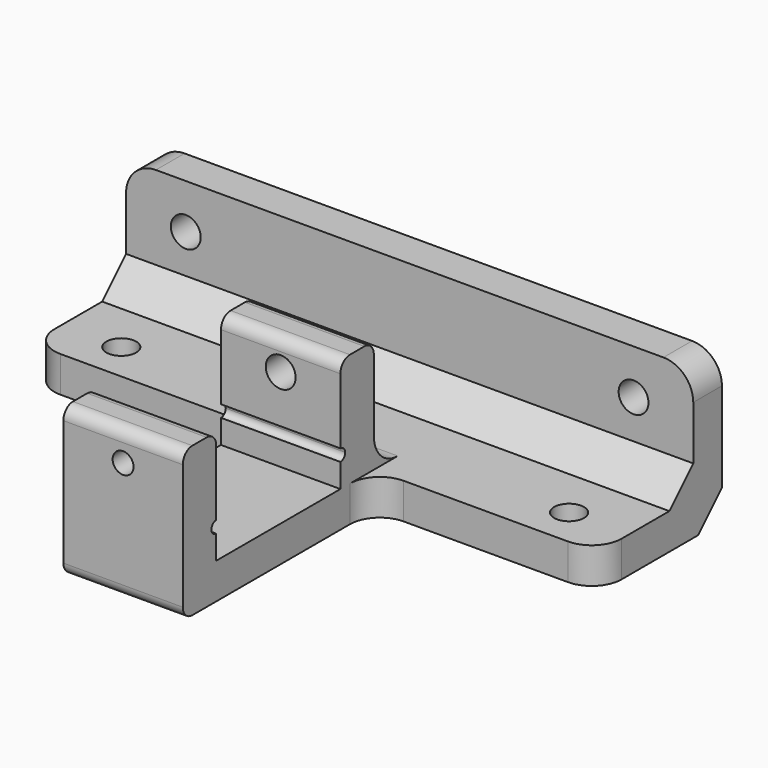
from build123d import *

# Parameters (mm, degrees)
F0_R      = 2.5
F0_W      = 20
F0_H      = 26
F0_H_2    = 7
F1_DEPTH  = 6
F0_W_2    = 95
F0_H_3    = 6
F2_DEPTH  = 25
F3_R      = 2.5
F4_DEPTH  = 25
F5_SIZE   = 5
F6_R      = 5
F7_DEPTH  = 25
F9_DEPTH  = 25
F10_R     = 1.75
F11_DEPTH = 50
F10_R_2   = 2.5
F12_DEPTH = 10
F13_R     = 2
F14_R     = 5
F15_R     = 5


with BuildPart() as f1:
    # F0 (on Top) → F1 (new body)
    with BuildSketch(Plane.XY):
        Polygon((-47.5, 20), (-47.5, 0), (-10, 0), (10, 0), (47.5, 0), (47.5, 20), align=None)
        with Locations((-37.5, 6.5)):
            Circle(F0_R, mode=Mode.SUBTRACT)
        with Locations((37.5, 6.5)):
            Circle(F0_R, mode=Mode.SUBTRACT)
        with Locations((0, -20)):
            Rectangle(F0_W, F0_H)
        with Locations((0, -36.5)):
            Rectangle(F0_W, F0_H_2)
        with Locations((0, -3.5)):
            Rectangle(F0_W, F0_H_2)
    extrude(amount=F1_DEPTH)

    # F0 (on Top) → F2 (join)
    with BuildSketch(Plane.XY):
        with Locations((0, 23)):
            Rectangle(F0_W_2, F0_H_3)
    extrude(amount=F2_DEPTH)

    # F3 (on face) → F4 (cut)
    with BuildSketch(Plane.XZ.offset(-20)):
        with Locations((-37.5, 17.5)):
            Circle(F3_R)
        with Locations((37.5, 17.5)):
            Circle(F3_R)
    extrude(amount=-F4_DEPTH, mode=Mode.SUBTRACT)

    # F5
    f5_edges = [f1.edges().sort_by_distance(p)[0] for p in [
        (0, 20, 6),
        (0, 26, 0),
    ]]
    chamfer(f5_edges, length=F5_SIZE)

    # F6
    f6_edges = [f1.edges().sort_by_distance(p)[0] for p in [
        (47.5, 23, 25),
        (47.5, 0, 3),
        (-47.5, 0, 3),
        (-47.5, 23, 25),
    ]]
    fillet(f6_edges, radius=F6_R)

    # F0 (on Top) → F7 (join)
    with BuildSketch(Plane.XY):
        with Locations((0, -3.5)):
            Rectangle(F0_W, F0_H_2)
        with Locations((0, -36.5)):
            Rectangle(F0_W, F0_H_2)
    extrude(amount=F7_DEPTH)

    # F8 (on face) → F9 (cut)
    with BuildSketch(Plane.YZ.offset(10)):
        with BuildLine():
            Line((-33, 10), (-33, 12))
            ThreePointArc((-33, 12), (-34, 11), (-33, 10))
        make_face()
        with BuildLine():
            Line((-7, 12), (-7, 10))
            ThreePointArc((-7, 10), (-6.2928932188, 10.2928932188), (-6, 11))
            ThreePointArc((-6, 11), (-6.2928932188, 11.7071067812), (-7, 12))
        make_face()
    extrude(amount=-F9_DEPTH, mode=Mode.SUBTRACT)

    # F10 (on face) → F11 (cut)
    with BuildSketch(Plane.XZ.offset(7)):
        with Locations((0, 20)):
            Circle(F10_R)
    extrude(amount=F11_DEPTH, mode=Mode.SUBTRACT)

    # F10 (on face) → F12 (cut)
    with BuildSketch(Plane.XZ.offset(7)):
        with Locations((0, 20)):
            Circle(F10_R_2)
        with Locations((0, 20)):
            Circle(F10_R, mode=Mode.SUBTRACT)
        with Locations((0, 20)):
            Circle(F10_R)
    extrude(amount=-F12_DEPTH, mode=Mode.SUBTRACT)

    # F13
    f13_edges = [f1.edges().sort_by_distance(p)[0] for p in [
        (0, -7, 25),
        (0, 0, 25),
        (0, -33, 25),
        (0, -40, 25),
        (0, -40, 0),
    ]]
    fillet(f13_edges, radius=F13_R)

    # F14
    f14_edges = [f1.edges().sort_by_distance(p)[0] for p in [
        (0, 0, 6),
    ]]
    fillet(f14_edges, radius=F14_R)

    # F15
    f15_edges = [f1.edges().sort_by_distance(p)[0] for p in [
        (10, 0, 3),
        (-10, 0, 3),
    ]]
    fillet(f15_edges, radius=F15_R)


solid = f1.part
